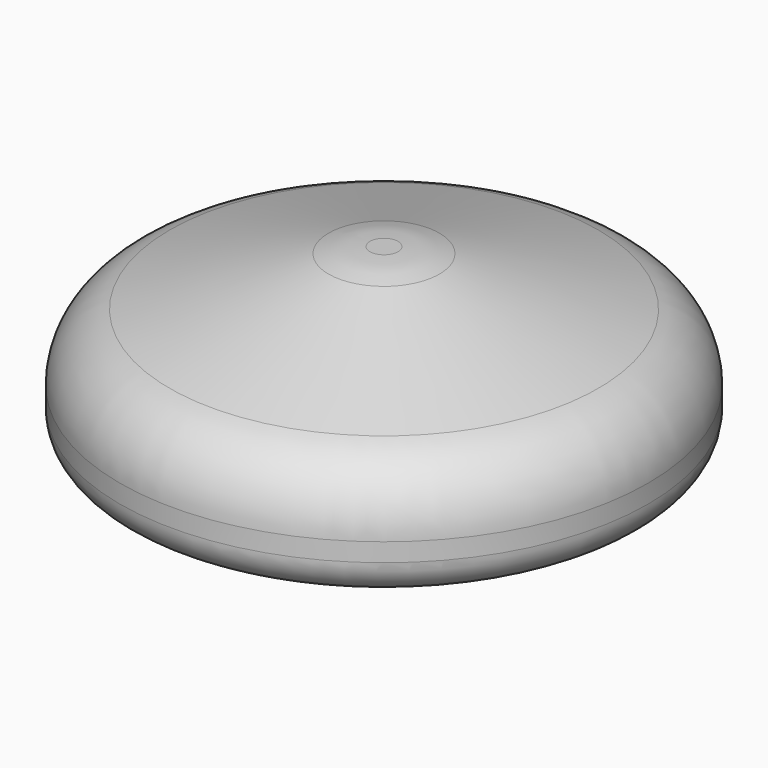
from build123d import *


with BuildPart() as f1:
    # F0 (on Front) → F1 (revolve)
    with BuildSketch(Plane.XZ):
        with BuildLine():
            Line((-8.255, 0), (0, 0))
            Line((0, 0), (0, 6.35))
            Line((0, 6.35), (-0.506132, 6.35))
            ThreePointArc((-0.506132, 6.35), (-1.261508, 6.293525), (-2.000089, 6.125357))
            Line((-2.000089, 6.125357), (-7.731978, 4.361699))
            ThreePointArc((-7.731978, 4.361699), (-9.02815, 3.443039), (-9.525, 1.93402))
            Line((-9.525, 1.93402), (-9.525, 1.27))
            ThreePointArc((-9.525, 1.27), (-9.153026, 0.371974), (-8.255, 0))
        make_face()
    revolve(axis=Axis((0, 0, 3.175), (0, 0, 1)))


solid = f1.part
